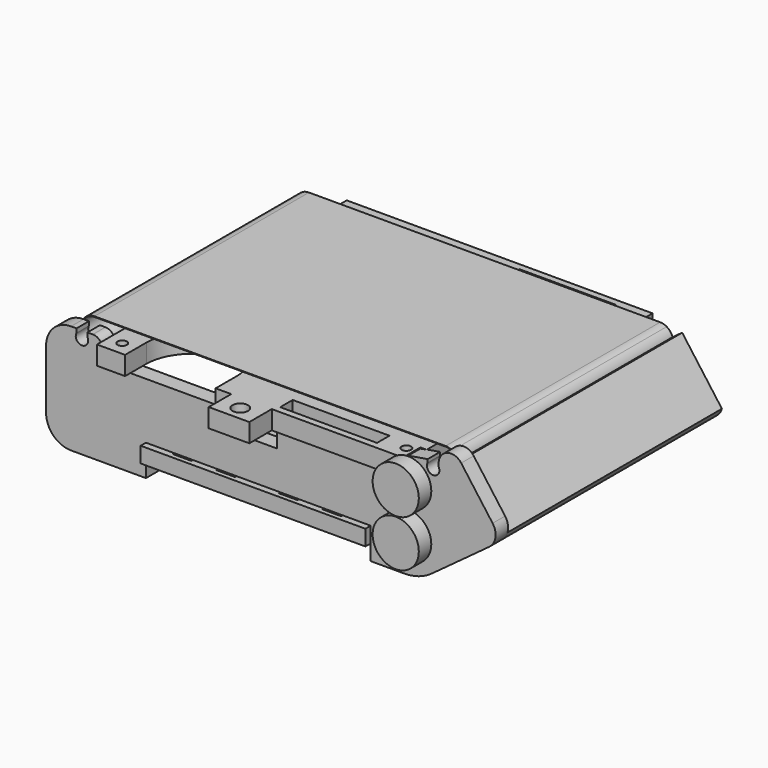
from build123d import *

# Parameters (mm, degrees)
F0_W      = 72
F0_H      = 100
F0_W_2    = 6
F0_H_2    = 6
F0_R      = 1.5
F0_W_3    = 3
F0_H_3    = 3
F0_R_2    = 2.5
F1_DEPTH  = 5
F3_R      = 1.5
F3_R_2    = 2.5
F3_W      = 31
F3_H      = 5
F4_DEPTH  = 6
F7_DEPTH  = 5
F8_R      = 5
F9_R      = 15
F10_R     = 8
F11_R     = 3
F13_DEPTH = 85.875
F15_DEPTH = 85.875
F17_R     = 7.4
F18_DEPTH = 5


with BuildPart() as f1:
    # F0 (on Top) → F1 (new body)
    with BuildSketch(Plane.XY):
        Rectangle(F0_W, F0_H)
        with Locations((-24, -45.5)):
            Rectangle(F0_W_2, F0_H_2, mode=Mode.SUBTRACT)
        with Locations((-17, -45.5)):
            Circle(F0_R, mode=Mode.SUBTRACT)
        with Locations((-10, -45.5)):
            Rectangle(F0_W_2, F0_H_2, mode=Mode.SUBTRACT)
        with Locations((-5.5, -23)):
            Rectangle(F0_W_3, F0_H_3, mode=Mode.SUBTRACT)
        with Locations((10, -45.5)):
            Rectangle(F0_W_2, F0_H_2, mode=Mode.SUBTRACT)
        with Locations((17, -45.5)):
            Circle(F0_R, mode=Mode.SUBTRACT)
        with Locations((24, -45.5)):
            Rectangle(F0_W_2, F0_H_2, mode=Mode.SUBTRACT)
        with Locations((5.5, -23)):
            Rectangle(F0_W_3, F0_H_3, mode=Mode.SUBTRACT)
        with Locations((0, -4.5)):
            Circle(F0_R_2, mode=Mode.SUBTRACT)
        with Locations((-20, 9)):
            Circle(F0_R_2, mode=Mode.SUBTRACT)
        with Locations((-5.5, 23)):
            Rectangle(F0_W_3, F0_H_3, mode=Mode.SUBTRACT)
        with Locations((-24, 45.5)):
            Rectangle(F0_W_2, F0_H_2, mode=Mode.SUBTRACT)
        with Locations((-17, 45.5)):
            Circle(F0_R, mode=Mode.SUBTRACT)
        with Locations((-10, 45.5)):
            Rectangle(F0_W_2, F0_H_2, mode=Mode.SUBTRACT)
        with Locations((0, 9)):
            Rectangle(F0_W_3, F0_H_3, mode=Mode.SUBTRACT)
        with Locations((5.5, 23)):
            Rectangle(F0_W_3, F0_H_3, mode=Mode.SUBTRACT)
        with Locations((20, 9)):
            Circle(F0_R_2, mode=Mode.SUBTRACT)
        with Locations((10, 45.5)):
            Rectangle(F0_W_2, F0_H_2, mode=Mode.SUBTRACT)
        with Locations((17, 45.5)):
            Circle(F0_R, mode=Mode.SUBTRACT)
        with Locations((24, 45.5)):
            Rectangle(F0_W_2, F0_H_2, mode=Mode.SUBTRACT)
    extrude(amount=F1_DEPTH)


with BuildPart() as f4:
    # F3 (on offset) → F4 (new body)
    with BuildSketch(Plane.XY.offset(23)):
        with BuildLine():
            Line((-50, 50), (-50, -50))
            Line((-50, -50), (-41, -50))
            Line((-41, -50), (-41, -41.5))
            ThreePointArc((-41, -41.5), (-26.5, -27), (-12, -41.5))
            Line((-12, -41.5), (-12, -50))
            Line((-12, -50), (-7, -50))
            Line((-7, -50), (-7, -59))
            Line((-7, -59), (6, -59))
            Line((6, -59), (6, -50))
            Line((6, -50), (48, -50))
            Line((48, -50), (48, -43))
            Line((48, -43), (50, -43))
            Line((50, -43), (50, 43))
            Line((50, 43), (48, 43))
            Line((48, 43), (48, 50))
            Line((48, 50), (-50, 50))
        make_face()
        with Locations((-45.5, -45.5)):
            Circle(F3_R, mode=Mode.SUBTRACT)
        with Locations((-0.5, -54.5)):
            Circle(F3_R_2, mode=Mode.SUBTRACT)
        with Locations((22.5, -45.375)):
            Rectangle(F3_W, F3_H, mode=Mode.SUBTRACT)
        with Locations((45.5, -45.5)):
            Circle(F3_R, mode=Mode.SUBTRACT)
        with Locations((-45.5, 45.5)):
            Circle(F3_R, mode=Mode.SUBTRACT)
        with Locations((22.5, 45.375)):
            Rectangle(F3_W, F3_H, mode=Mode.SUBTRACT)
        with Locations((45.5, 45.5)):
            Circle(F3_R, mode=Mode.SUBTRACT)
    extrude(amount=F4_DEPTH)


with BuildPart() as f7:
    # F6 (on plane+point) → F7 (new body)
    with BuildSketch(Plane.XZ.offset(47.875)):
        with BuildLine():
            Line((36, 5), (36, -5))
            Line((36, -5), (51.6544706622, -5))
            Line((51.6544706622, -5), (78, 14.3579886772))
            Line((78, 14.3579886772), (64.97340526, 32.0867176075))
            ThreePointArc((64.97340526, 32.0867176075), (60.5037297725, 33.519141852), (57.75, 29.7182458366))
            Line((57.75, 29.7182458366), (57.75, 28.7182458366))
            ThreePointArc((57.75, 28.7182458366), (56, 25.75), (54.25, 28.7182458366))
            Line((54.25, 28.7182458366), (54.25, 29.7182458366))
            Line((54.25, 29.7182458366), (48, 28.6620019593))
            Line((48, 28.6620019593), (48, 23))
            Line((48, 23), (6, 23))
            Line((6, 23), (6, 17))
            Line((6, 17), (-7, 17))
            Line((-7, 17), (-7, 23))
            Line((-7, 23), (-50, 23))
            Line((-50, 23), (-50, 30))
            Line((-50, 30), (-54.75, 30))
            Line((-54.75, 30), (-54.75, 28.7182458366))
            ThreePointArc((-54.75, 28.7182458366), (-56.5, 25.75), (-58.25, 28.7182458366))
            Line((-58.25, 28.7182458366), (-58.25, 30))
            Line((-58.25, 30), (-68, 30))
            Line((-68, 30), (-68, -5))
            Line((-68, -5), (-36, -5))
            Line((-36, -5), (-36, 5))
            Line((-36, 5), (36, 5))
        make_face()
    extrude(amount=-F7_DEPTH)

    # F8
    f8_edges = [f7.edges().sort_by_distance(p)[0] for p in [
        (78, -45.375, 14.357989),
    ]]
    fillet(f8_edges, radius=F8_R)

    # F9
    f9_edges = [f7.edges().sort_by_distance(p)[0] for p in [
        (51.654471, -45.375, -5),
    ]]
    fillet(f9_edges, radius=F9_R)

    # F10
    f10_edges = [f7.edges().sort_by_distance(p)[0] for p in [
        (-68, -45.375, -5),
        (-68, -45.375, 30),
    ]]
    fillet(f10_edges, radius=F10_R)

    # F11
    f11_edges = [f7.edges().sort_by_distance(p)[0] for p in [
        (-50, -45.375, 30),
    ]]
    fillet(f11_edges, radius=F11_R)


with BuildPart() as f13:
    # F12 (on face) → F13 (new body, through all)
    with BuildSketch(Plane(origin=(0, -42.875, 0), x_dir=(-1, 0, 0), z_dir=(0, 1, 0))):
        with BuildLine():
            Line((-63.0656436587, 31.3054073795), (-75.7961794273, 13.9796041068))
            ThreePointArc((-75.7961794273, 13.9796041068), (-75.0929785305, 12.5403877936), (-73.970743425, 11.3973989636))
            Line((-73.970743425, 11.3973989636), (-72.3590407949, 10.2131630782))
            Line((-72.3590407949, 10.2131630782), (-59.0363870836, 28.3448176659))
            Line((-59.0363870836, 28.3448176659), (-63.0656436587, 31.3054073795))
        make_face()
    extrude(amount=F13_DEPTH)


with BuildPart() as f15:
    # F14 (on face) → F15 (new body, through all)
    with BuildSketch(Plane(origin=(0, -42.875, 0), x_dir=(-1, 0, 0), z_dir=(0, 1, 0))):
        with BuildLine():
            ThreePointArc((-58.0326092839, 31.1950688671), (-57.0535000075, 31.6087741232), (-56, 31.75))
            Line((-56, 31.75), (56.5, 31.75))
            ThreePointArc((56.5, 31.75), (58.3708286934, 31.2855339059), (59.8071891388, 30))
            Line((59.8071891388, 30), (60, 30))
            ThreePointArc((60, 30), (60.023281645, 29.9999661227), (60.0465630928, 29.9998644913))
            ThreePointArc((60.0465630928, 29.9998644913), (58.5236809453, 31.4303145832), (56.5, 31.95))
            Line((56.5, 31.95), (-56, 31.95))
            ThreePointArc((-56, 31.95), (-57.0935939895, 31.8051266548), (-58.1117438744, 31.380501041))
            ThreePointArc((-58.1117438744, 31.380501041), (-58.0710081017, 31.2882836107), (-58.0326092839, 31.1950688671))
        make_face()
        with BuildLine():
            Line((60, 30), (59.8071891388, 30))
            ThreePointArc((59.8071891388, 30), (60.0355339059, 25.8791713066), (56.5, 23.75))
            Line((56.5, 23.75), (50, 23.75))
            Line((50, 23.75), (50, 23.55))
            Line((50, 23.55), (56.5, 23.55))
            ThreePointArc((56.5, 23.55), (60.1803145832, 25.7263190547), (60.0465630928, 29.9998644913))
            ThreePointArc((60.0465630928, 29.9998644913), (60.023281645, 29.9999661227), (60, 30))
        make_face()
        with BuildLine():
            ThreePointArc((-56, 23.75), (-59.8587741232, 26.6964999925), (-58.0326092839, 31.1950688671))
            ThreePointArc((-58.0326092839, 31.1950688671), (-58.0710081017, 31.2882836107), (-58.1117438744, 31.380501041))
            ThreePointArc((-58.1117438744, 31.380501041), (-60.0551266548, 26.6564060105), (-56, 23.55))
            Line((-56, 23.55), (-48, 23.55))
            Line((-48, 23.55), (-48, 23.75))
            Line((-48, 23.75), (-56, 23.75))
        make_face()
    extrude(amount=F15_DEPTH)


with BuildPart() as f18:
    # F17 (on offset) → F18 (new body)
    with BuildSketch(Plane.XZ.offset(62.875)):
        with Locations((56, 27.75)):
            Circle(F17_R)
    extrude(amount=-F18_DEPTH)


with BuildPart() as f18b:
    # F17 (on offset) → F18, piece 2 (new body)
    with BuildSketch(Plane.XZ.offset(62.875)):
        with Locations((56, 12.75)):
            Circle(F17_R)
    extrude(amount=-F18_DEPTH)


solid = Compound([f1.part, f4.part, f7.part, f13.part, f15.part, f18.part, f18b.part])
